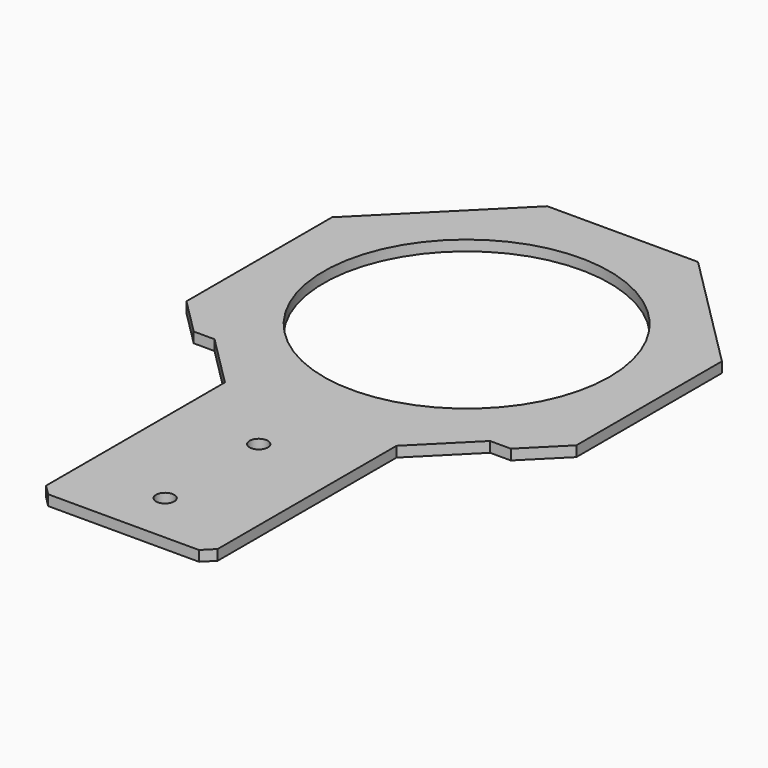
from build123d import *

# Parameters (mm, degrees)
F0_R     = 1.75
F0_R_2   = 27.5
F1_DEPTH = 2


with BuildPart() as f1:
    # F0 (on Top) → F1 (new body)
    with BuildSketch(Plane.XY):
        Polygon((14.5, 37.5), (0, 37.5), (-14.5, 37.5), (-37.5, 14.5), (-37.5, -20.5), (-30.5, -27.5), (-26.5, -27.5), (-16.5, -37.5), (-16.5, -80.5), (-14.5, -82.5), (0, -82.5), (14.5, -82.5), (16.5, -80.5), (16.5, -37.5), (26.5, -27.5), (30.5, -27.5), (37.5, -20.5), (37.5, 14.5), align=None)
        with Locations((0, -72.5)):
            Circle(F0_R, mode=Mode.SUBTRACT)
        with Locations((0, -50)):
            Circle(F0_R, mode=Mode.SUBTRACT)
        Circle(F0_R_2, mode=Mode.SUBTRACT)
    extrude(amount=F1_DEPTH)


solid = f1.part
